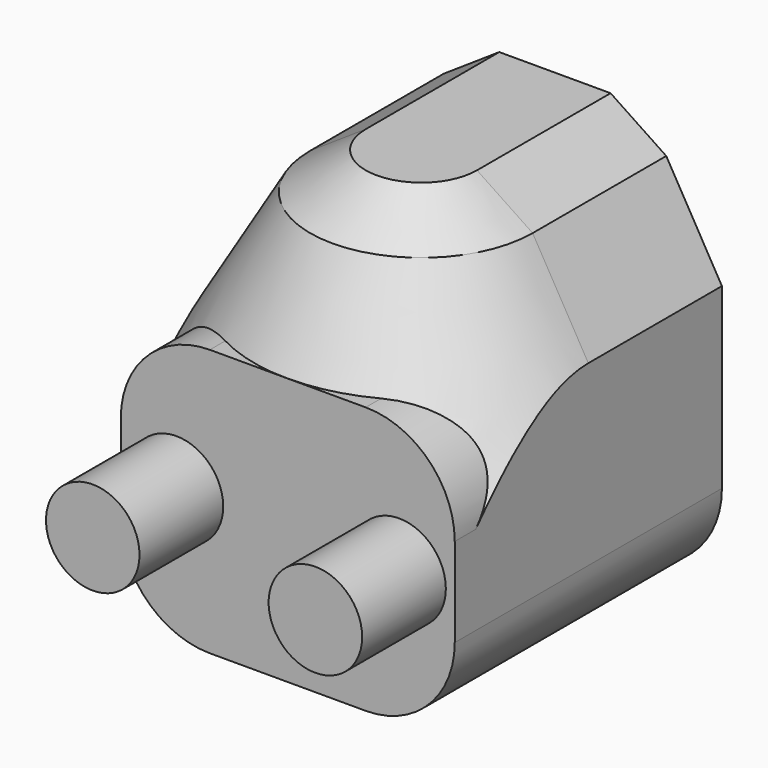
from build123d import *

# Parameters (mm, degrees)
F0_W     = 19.05
F0_H     = 15.24
F1_DEPTH = 9.525
F2_R     = 2.667
F3_DEPTH = 5.969
F8_R     = 5.08


with BuildPart() as f1:
    # F0 (on Right) → F1 (new body, symmetric)
    with BuildSketch(Plane.YZ):
        with Locations((-9.525, 7.62)):
            Rectangle(F0_W, F0_H)
    extrude(amount=F1_DEPTH, both=True)

    # F2 (on face) → F3 (join)
    with BuildSketch(Plane.XZ.offset(19.05)):
        with Locations((6.35, 7.62)):
            Circle(F2_R)
        with Locations((-6.35, 7.62)):
            Circle(F2_R)
    extrude(amount=F3_DEPTH)

    # F4 (on Right) → F5 (revolve)
    with BuildSketch(Plane.YZ):
        Polygon((-19.05, 15.24), (-9.525, 15.24), (-9.525, 22.86), (-12.7, 22.86), (-15.875, 20.739261314), align=None)
    revolve(axis=Axis((0, -9.525, 19.05), (0, 0, 1)))

    # F6 (on face) → F7 (join, up to the next surface of F1)
    with BuildSketch(Plane(origin=(0, 0, 0), x_dir=(-1, 0, 0), z_dir=(0, 1, 0))):
        Polygon((-6.35, 20.739261314), (-9.525, 15.24), (0, 15.24), (9.525, 15.24), (6.35, 20.739261314), (3.175, 22.86), (-3.175, 22.86), align=None)
    extrude(until=Until.NEXT, dir=(0, -1, 0))

    # F8
    f8_edges = [f1.edges().sort_by_distance(p)[0] for p in [
        (9.525, -14.2875, 15.24),
        (-9.525, -14.2875, 15.24),
        (-9.525, -9.525, 0),
        (9.525, -9.525, 0),
    ]]
    fillet(f8_edges, radius=F8_R)


solid = f1.part
